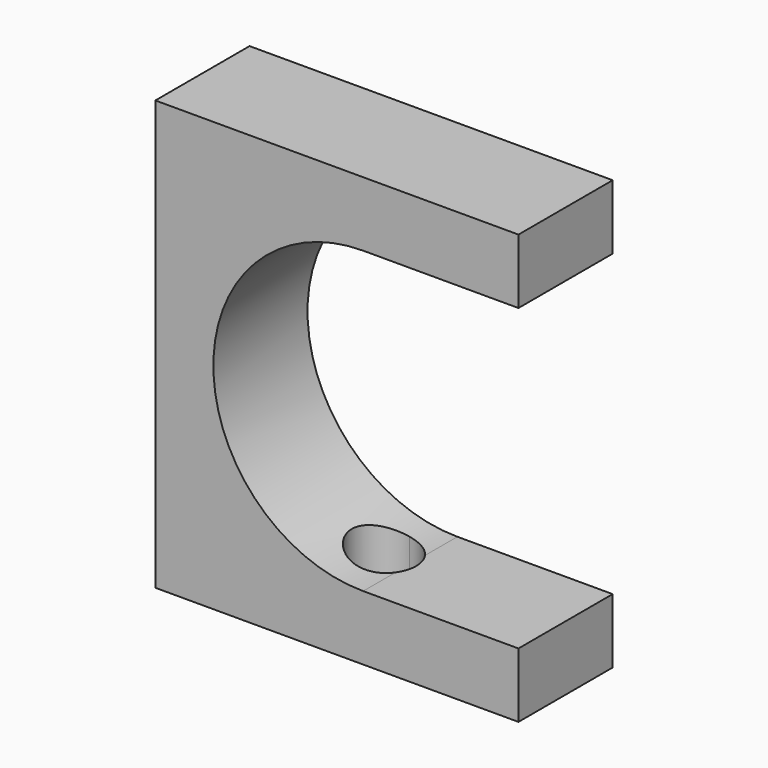
from build123d import *

# Parameters (mm, degrees)
F2_DEPTH = 11
F4_DEPTH = 7.1505523714


with BuildPart() as f2:
    # F1 (on Front) → F2 (new body)
    with BuildSketch(Plane.XZ):
        with BuildLine():
            Line((14.506585896, 14), (14.506585896, 20.0424585491))
            Line((14.506585896, 20.0424585491), (-19.4195080549, 20.0424585491))
            Line((-19.4195080549, 20.0424585491), (-19.4195080549, -20.0424585491))
            Line((-19.4195080549, -20.0424585491), (14.506585896, -20.0424585491))
            Line((14.506585896, -20.0424585491), (14.506585896, -14))
            Line((14.506585896, -14), (0, -14))
            ThreePointArc((0, -14), (-14, 0), (0, 14))
            Line((0, 14), (14.506585896, 14))
        make_face()
    extrude(amount=F2_DEPTH)

    # F3 (on face) → F4 (cut, through all)
    with BuildSketch(Plane(origin=(0, 0, -20.0424585491), x_dir=(1, 0, 0), z_dir=(0, 0, -1))):
        with BuildLine():
            Line((-2.4564610794, 8.5), (-2.4564610794, 2.5))
            ThreePointArc((-2.4564610794, 2.5), (-0.3351407359, 3.3786796564), (0.5435389206, 5.5))
            ThreePointArc((0.5435389206, 5.5), (-0.3351407359, 7.6213203436), (-2.4564610794, 8.5))
        make_face()
        with BuildLine():
            ThreePointArc((-2.4564610794, 8.5), (-5.4564610794, 5.5), (-2.4564610794, 2.5))
            Line((-2.4564610794, 2.5), (-2.4564610794, 8.5))
        make_face()
    extrude(amount=-F4_DEPTH, mode=Mode.SUBTRACT)


solid = f2.part
